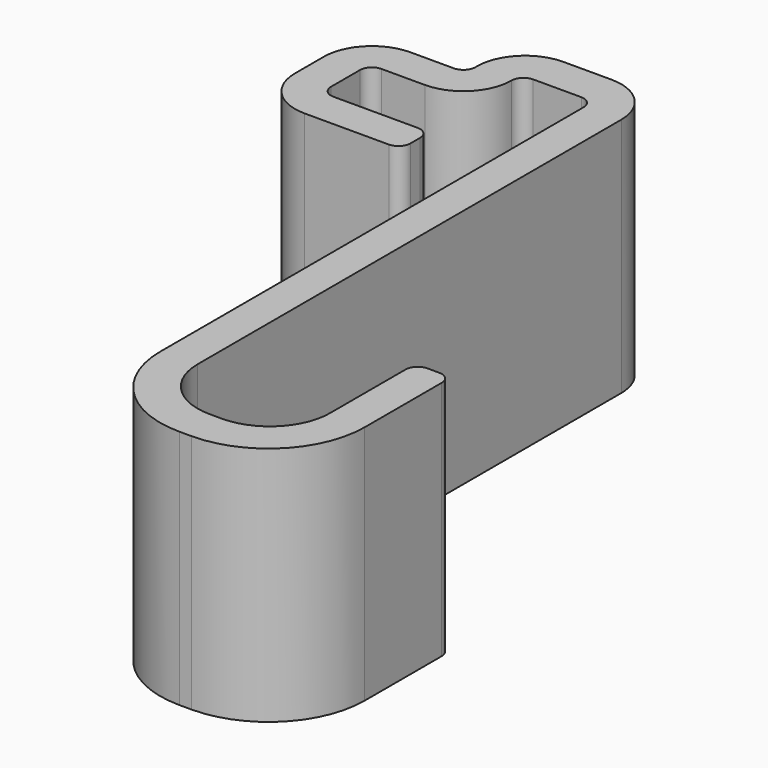
from build123d import *

# Parameters (mm, degrees)
F1_DEPTH = 508


with BuildPart() as f1:
    # F0 (on Top) → F1 (new body)
    with BuildSketch(Plane.XY):
        with BuildLine():
            ThreePointArc((0, -25.4), (-7.439488, -7.439488), (-25.4, 0))
            Line((-25.4, 0), (-203.2, 0))
            ThreePointArc((-203.2, 0), (-221.160512, 7.439488), (-228.6, 25.4))
            Line((-228.6, 25.4), (-228.6, 101.6))
            ThreePointArc((-228.6, 101.6), (-221.160512, 119.560512), (-203.2, 127))
            Line((-203.2, 127), (-111.76, 127))
            ThreePointArc((-111.76, 127), (-39.917951, 156.757951), (-10.16, 228.6))
            ThreePointArc((-10.16, 228.6), (-2.720512, 246.560512), (15.24, 254))
            Line((15.24, 254), (116.84, 254))
            ThreePointArc((116.84, 254), (134.800512, 246.560512), (142.24, 228.6))
            Line((142.24, 228.6), (142.24, -889))
            ThreePointArc((142.24, -889), (201.755902, -1032.684098), (345.44, -1092.2))
            Line((345.44, -1092.2), (370.84, -1092.2))
            ThreePointArc((370.84, -1092.2), (514.524098, -1032.684098), (574.04, -889))
            Line((574.04, -889), (574.04, -685.8))
            ThreePointArc((574.04, -685.8), (566.600512, -667.839488), (548.64, -660.4))
            Line((548.64, -660.4), (523.24, -660.4))
            ThreePointArc((523.24, -660.4), (505.279488, -667.839488), (497.84, -685.8))
            Line((497.84, -685.8), (497.84, -885.195199))
            ThreePointArc((497.84, -885.195199), (460.642561, -974.997761), (370.84, -1012.195199))
            Line((370.84, -1012.195199), (345.44, -1012.195199))
            ThreePointArc((345.44, -1012.195199), (255.637439, -974.997761), (218.44, -885.195199))
            Line((218.44, -885.195199), (218.44, 232.404801))
            ThreePointArc((218.44, 232.404801), (188.682049, 304.24685), (116.84, 334.004801))
            Line((116.84, 334.004801), (15.24, 334.004801))
            ThreePointArc((15.24, 334.004801), (-56.602049, 304.24685), (-86.36, 232.404801))
            Line((-86.36, 232.404801), (-86.36, 228.6))
            ThreePointArc((-86.36, 228.6), (-93.799488, 210.639488), (-111.76, 203.2))
            Line((-111.76, 203.2), (-203.2, 203.2))
            ThreePointArc((-203.2, 203.2), (-275.042049, 173.442049), (-304.8, 101.6))
            Line((-304.8, 101.6), (-304.8, 25.4))
            ThreePointArc((-304.8, 25.4), (-275.042049, -46.442049), (-203.2, -76.2))
            Line((-203.2, -76.2), (-25.4, -76.2))
            ThreePointArc((-25.4, -76.2), (-7.439488, -68.760512), (0, -50.8))
            Line((0, -50.8), (0, -25.4))
        make_face()
    extrude(amount=F1_DEPTH)


solid = f1.part
